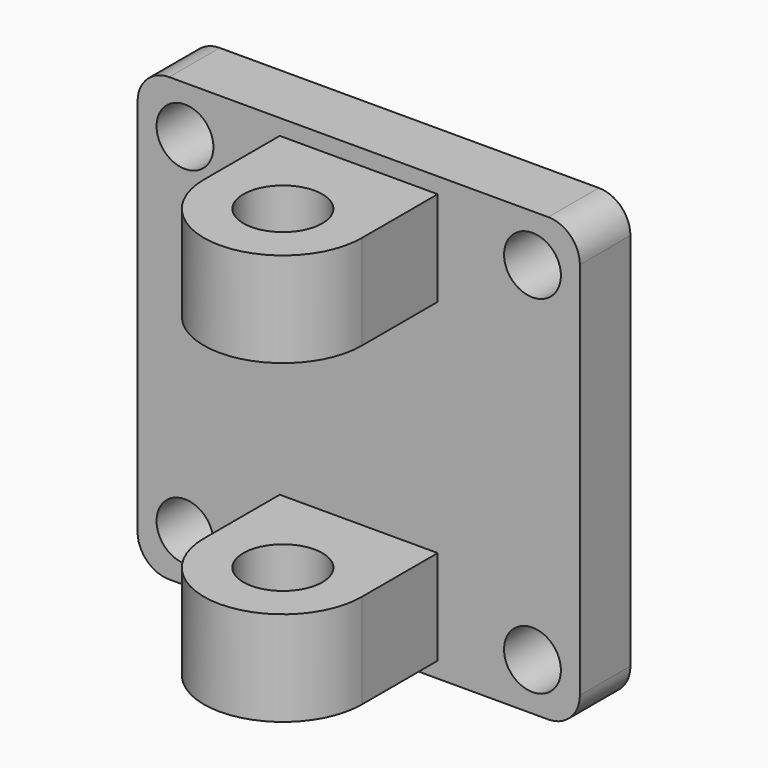
from build123d import *

# Parameters (mm, degrees)
F0_R     = 9
F1_DEPTH = 10
F3_R     = 12.5
F4_DEPTH = 65
F5_DEPTH = 35
F7_R     = 30
F8_DEPTH = 5


with BuildPart() as f1:
    # F0 (on Front) → F1 (new body, symmetric)
    with BuildSketch(Plane.XZ):
        with BuildLine():
            Line((-60, -70), (60, -70))
            ThreePointArc((60, -70), (67.0710678119, -67.0710678119), (70, -60))
            Line((70, -60), (70, 60))
            ThreePointArc((70, 60), (67.0710678119, 67.0710678119), (60, 70))
            Line((60, 70), (-60, 70))
            ThreePointArc((-60, 70), (-67.0710678119, 67.0710678119), (-70, 60))
            Line((-70, 60), (-70, -60))
            ThreePointArc((-70, -60), (-67.0710678119, -67.0710678119), (-60, -70))
        make_face()
        with Locations((-55, -55)):
            Circle(F0_R, mode=Mode.SUBTRACT)
        with Locations((55, -55)):
            Circle(F0_R, mode=Mode.SUBTRACT)
        with Locations((-55, 55)):
            Circle(F0_R, mode=Mode.SUBTRACT)
        with Locations((55, 55)):
            Circle(F0_R, mode=Mode.SUBTRACT)
    extrude(amount=F1_DEPTH, both=True)

    # F3 (on Top) → F4 (join, symmetric)
    with BuildSketch(Plane.XY):
        with BuildLine():
            Line((-25, -10), (-25, -40))
            ThreePointArc((-25, -40), (0, -65), (25, -40))
            Line((25, -40), (25, -10))
            Line((25, -10), (-25, -10))
        make_face()
        with Locations((0, -40)):
            Circle(F3_R, mode=Mode.SUBTRACT)
    extrude(amount=F4_DEPTH, both=True)


with BuildPart() as f5:
    # F3 (on Top) → F5 (new body, symmetric)
    with BuildSketch(Plane.XY):
        with BuildLine():
            Line((-25, -10), (-25, -40))
            ThreePointArc((-25, -40), (0, -65), (25, -40))
            Line((25, -40), (25, -10))
            Line((25, -10), (-25, -10))
        make_face()
        with Locations((0, -40)):
            Circle(F3_R, mode=Mode.SUBTRACT)
    extrude(amount=F5_DEPTH, both=True)


with BuildPart() as f1_1:
    add(f1.part)

    # F6: cut F5
    add(f5.part, mode=Mode.SUBTRACT)

    # F7 (on face) → F8 (cut)
    with BuildSketch(Plane(origin=(0, 10, 0), x_dir=(-1, 0, 0), z_dir=(0, 1, 0))):
        Circle(F7_R)
    extrude(amount=-F8_DEPTH, mode=Mode.SUBTRACT)


solid = f1_1.part
